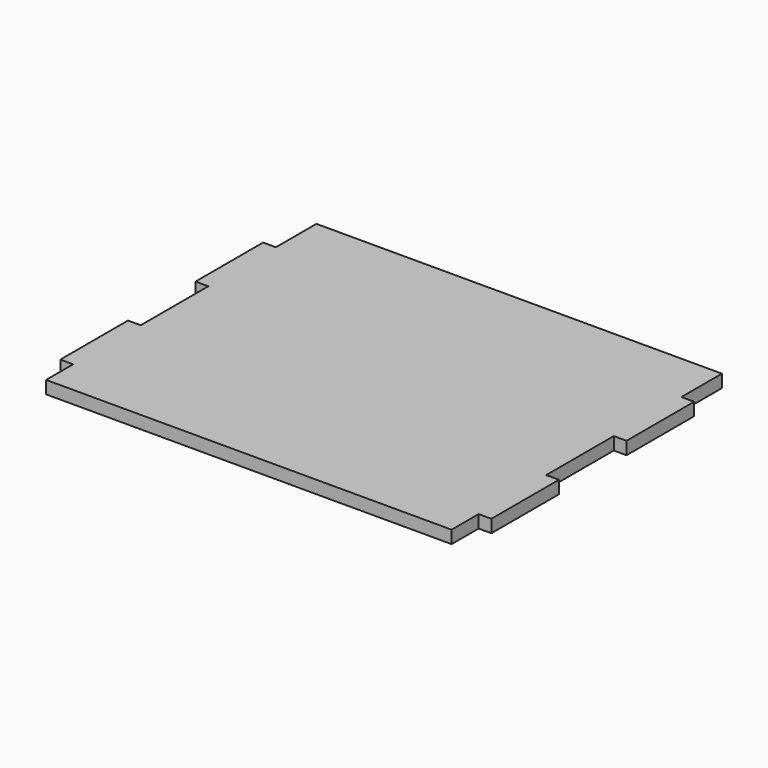
from build123d import *

# Parameters (mm, degrees)
F0_W     = 19.177
F0_H     = 127
F1_DEPTH = 19.177


with BuildPart() as f1:
    # F0 (on Top) → F1 (new body)
    with BuildSketch(Plane.XY):
        with Locations((-238.1885, 127)):
            Rectangle(F0_W, F0_H)
        with Locations((-238.1885, -127)):
            Rectangle(F0_W, F0_H)
        with Locations((390.5885, -127)):
            Rectangle(F0_W, F0_H)
        with Locations((390.5885, 127)):
            Rectangle(F0_W, F0_H)
        Polygon((381, 266.7), (-228.6, 266.7), (-228.6, 190.5), (-228.6, 63.5), (-228.6, -63.5), (-228.6, -190.5), (-228.6, -241.3), (381, -241.3), (381, -190.5), (381, -63.5), (381, 63.5), (381, 190.5), align=None)
    extrude(amount=F1_DEPTH)


solid = f1.part
